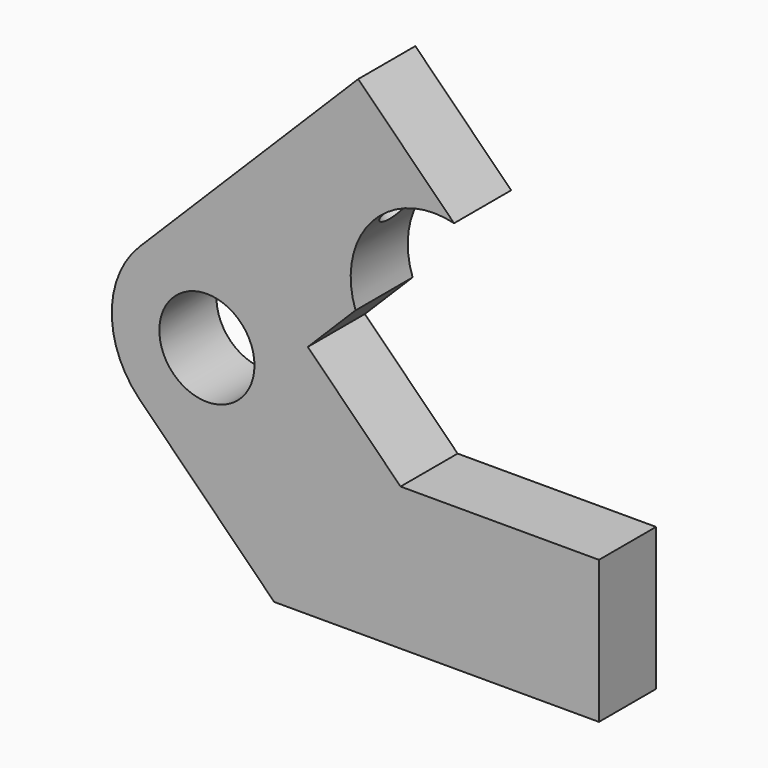
from build123d import *

# Parameters (mm, degrees)
F0_R     = 6.35
F1_DEPTH = 9.525
F2_R     = 3.175
F3_DEPTH = 25.4


with BuildPart() as f1:
    # F0 (on Front) → F1 (new body)
    with BuildSketch(Plane.XZ):
        with BuildLine():
            ThreePointArc((33.982888, 53.41808), (36.216129, 64.612642), (47.137845, 67.932539))
            Line((47.137845, 67.932539), (34.347212, 80.723172))
            Line((34.347212, 80.723172), (5.161379, 51.53734))
            ThreePointArc((5.161379, 51.53734), (1.441636, 42.557084), (5.161379, 33.576828))
            Line((5.161379, 33.576828), (23.121892, 15.616315))
            Line((23.121892, 15.616315), (66.482404, 15.616315))
            Line((66.482404, 15.616315), (66.482404, 34.666315))
            Line((66.482404, 34.666315), (39.992916, 34.666315))
            Line((39.992916, 34.666315), (27.61202, 47.047212))
            Line((27.61202, 47.047212), (33.982888, 53.41808))
        make_face()
        with Locations((14.141636, 42.557084)):
            Circle(F0_R, mode=Mode.SUBTRACT)
    extrude(amount=-F1_DEPTH)

    # F2 (on face) → F3 (cut)
    with BuildSketch(Plane(origin=(-23.18798, 0, 23.18798), x_dir=(0, -1, 0), z_dir=(-0.707107, 0, 0.707107))):
        with Locations((-4.7625, 71.842049)):
            Circle(F2_R)
    extrude(amount=-F3_DEPTH, mode=Mode.SUBTRACT)


solid = f1.part
